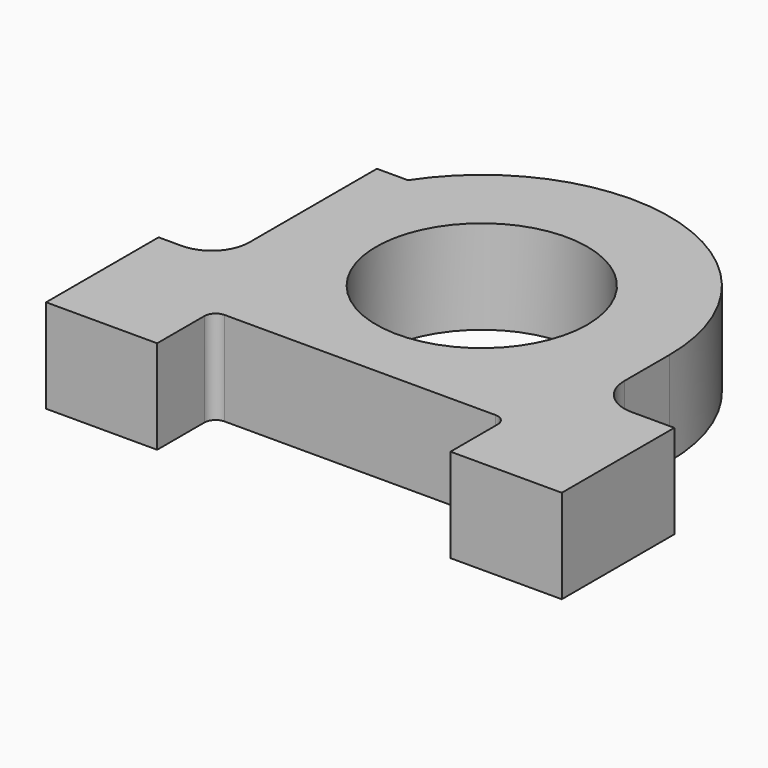
from build123d import *

# Parameters (mm, degrees)
F0_R     = 7.1501
F1_DEPTH = 6.35


with BuildPart() as f1:
    # F0 (on Top) → F1 (new body)
    with BuildSketch(Plane.XY):
        with BuildLine():
            Line((-109.799162, 43.649124), (-111.366863, 43.649124))
            Line((-111.366863, 43.649124), (-111.366863, 34.124124))
            Line((-111.366863, 34.124124), (-103.844827, 34.124124))
            Line((-103.844827, 34.124124), (-103.844827, 38.124624))
            ThreePointArc((-103.844827, 38.124624), (-103.621642, 38.66344), (-103.082827, 38.886624))
            Line((-103.082827, 38.886624), (-84.740616, 38.886624))
            ThreePointArc((-84.740616, 38.886624), (-84.2018, 38.66344), (-83.978616, 38.124624))
            Line((-83.978616, 38.124624), (-83.978616, 34.124124))
            Line((-83.978616, 34.124124), (-76.441863, 34.124124))
            Line((-76.441863, 34.124124), (-76.441863, 43.649124))
            Line((-76.441863, 43.649124), (-79.319162, 43.649124))
            ThreePointArc((-79.319162, 43.649124), (-81.115213, 44.393073), (-81.859162, 46.189124))
            Line((-81.859162, 46.189124), (-81.859162, 49.999124))
            ThreePointArc((-81.859162, 49.999124), (-90.907446, 62.162799), (-105.159158, 56.994129))
            Line((-105.159158, 56.994129), (-107.259162, 56.994129))
            Line((-107.259162, 56.994129), (-107.259162, 49.999124))
            Line((-107.259162, 49.999124), (-107.259162, 46.189124))
            ThreePointArc((-107.259162, 46.189124), (-108.003111, 44.393073), (-109.799162, 43.649124))
        make_face()
        with Locations((-94.559162, 49.999124)):
            Circle(F0_R, mode=Mode.SUBTRACT)
    extrude(amount=F1_DEPTH)


solid = f1.part
